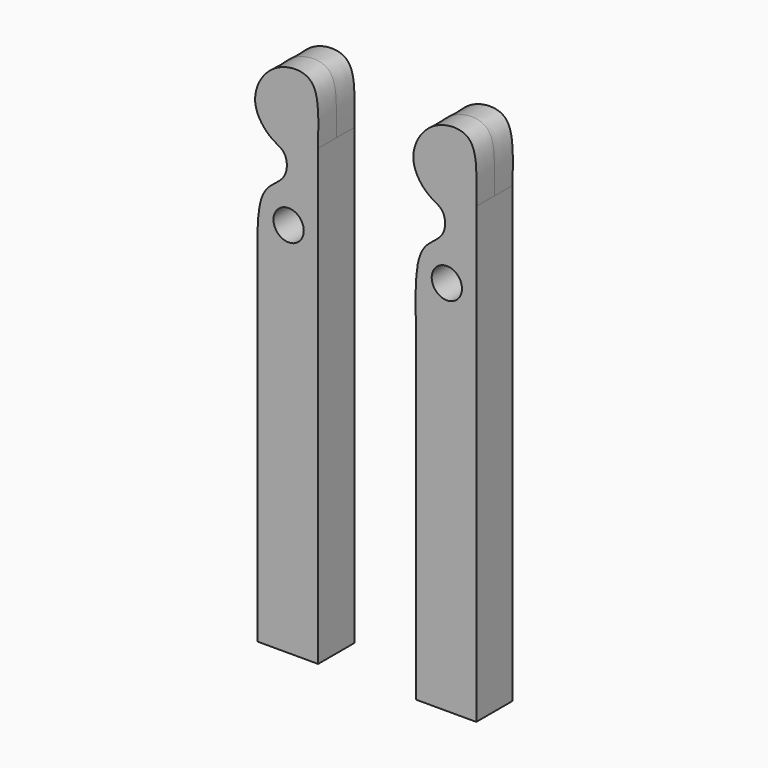
from build123d import *

# Parameters (mm, degrees)
F0_R     = 6.35
F1_DEPTH = 9.525


with BuildPart() as f1:
    # F0 (on Front) → F1 (new body, symmetric)
    with BuildSketch(Plane.XZ):
        with BuildLine():
            Line((-57.2606623173, 32.8439128697), (-57.2606623173, -106.8560871303))
            Line((-57.2606623173, -106.8560871303), (-31.8606623173, -106.8560871303))
            Line((-31.8606623173, -106.8560871303), (-31.8606623173, 83.6439128697))
            add(Edge.make_bspline(
                [(-31.8606623173, 83.6439128697), (-31.7330850722, 88.2144729707), (-31.4929194438, 96.4416184812), (-33.2919511484, 111.1060607238), (-52.3581325993, 109.7112812035), (-61.5880256163, 92.1582729218), (-52.1653493945, 80.3578024752), (-44.7878529095, 78.2438639719), (-44.4864529424, 67.7620229395), (-53.9493609724, 63.0727502615), (-57.6714489064, 52.4115408462), (-57.3729632893, 38.3573699623), (-57.2606623173, 32.8439128697)],
                knots=[0, 0, 0, 0, 0.1049893048, 0.2034139651, 0.312946575, 0.431060144, 0.5343428911, 0.6096004951, 0.6906797065, 0.7786043191, 0.8734320164, 1, 1, 1, 1], degree=3))
        make_face()
        with Locations((-44.2255852953, 51.2400777547)):
            Circle(F0_R, mode=Mode.SUBTRACT)
    extrude(amount=F1_DEPTH, both=True)


with BuildPart() as f1b:
    # F0 (on Front) → F1, piece 2 (new body, symmetric)
    with BuildSketch(Plane.XZ):
        with BuildLine():
            Line((9.1439988464, 33.0255150914), (9.1439988464, -106.6744849086))
            Line((9.1439988464, -106.6744849086), (34.5439988464, -106.6744849086))
            Line((34.5439988464, -106.6744849086), (34.5439988464, 83.8255150914))
            add(Edge.make_bspline(
                [(34.5439988464, 83.8255150914), (34.6715760914, 88.3960751924), (34.9117417199, 96.6232207029), (33.1127100153, 111.2876629455), (14.0465285644, 109.8928834253), (4.8166355474, 92.3398751436), (14.2393117691, 80.5394046969), (21.6168082542, 78.4254661936), (21.9182082213, 67.9436251612), (12.4553001913, 63.2543524832), (8.7332122573, 52.5931430679), (9.0316978744, 38.538972184), (9.1439988464, 33.0255150914)],
                knots=[0, 0, 0, 0, 0.1049893048, 0.2034139651, 0.312946575, 0.431060144, 0.5343428911, 0.6096004951, 0.6906797065, 0.7786043191, 0.8734320164, 1, 1, 1, 1], degree=3))
        make_face()
        with Locations((22.1790758684, 51.4216799764)):
            Circle(F0_R, mode=Mode.SUBTRACT)
    extrude(amount=F1_DEPTH, both=True)


solid = Compound([f1.part, f1b.part])
